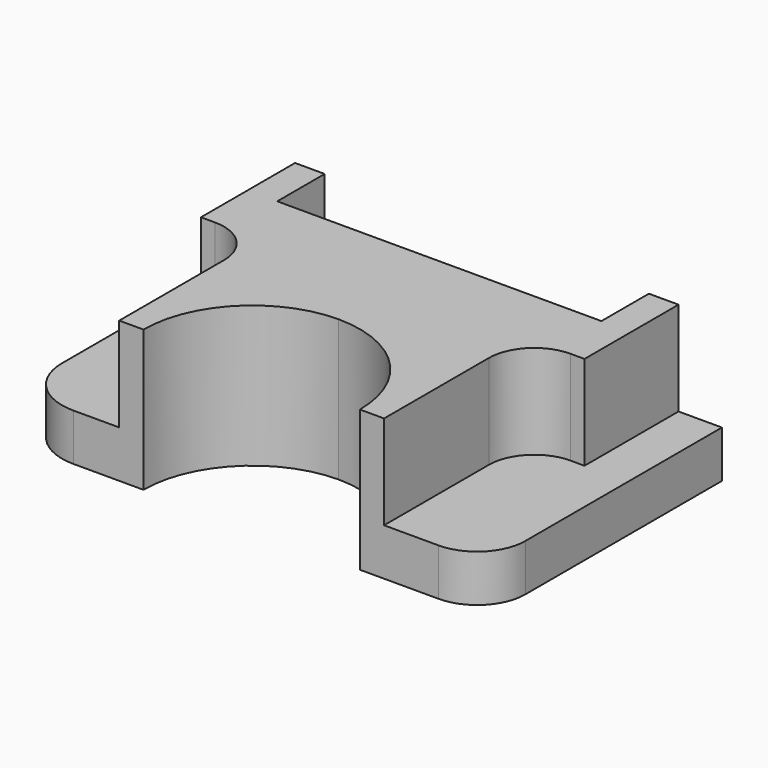
from build123d import *

# Parameters (mm, degrees)
F0_W     = 101.6
F0_H     = 63.5
F1_DEPTH = 10.16
F3_DEPTH = 30.48
F4_DEPTH = 25.4
F5_R     = 10.4245741623
F6_R     = 12.2642048969
F7_R     = 9.8113639175


with BuildPart() as f1:
    # F0 (on Top) → F1 (new body)
    with BuildSketch(Plane.XY):
        Rectangle(F0_W, F0_H)
    extrude(amount=F1_DEPTH)

    # F2 (on Top) → F3 (join)
    with BuildSketch(Plane.XY):
        with BuildLine():
            Line((-41.4277352393, 31.75), (-41.4277352393, 6.35))
            Line((-41.4277352393, 6.35), (-28.6113340408, 6.35))
            Line((-28.6113340408, 6.35), (-28.6113340408, -31.75))
            Line((-28.6113340408, -31.75), (-23.3824987947, -31.75))
            ThreePointArc((-23.3824987947, -31.75), (-16.5415723839, -15.1712032327), (0, -8.2407516258))
            ThreePointArc((0, -8.2407516258), (16.5415723839, -15.1712032327), (23.3824987947, -31.75))
            Line((23.3824987947, -31.75), (28.6113340408, -31.75))
            Line((28.6113340408, -31.75), (28.6113340408, 6.35))
            Line((28.6113340408, 6.35), (41.4277352393, 6.35))
            Line((41.4277352393, 6.35), (41.4277352393, 31.75))
            Line((41.4277352393, 31.75), (35.0195355713, 31.75))
            Line((35.0195355713, 31.75), (35.0195355713, 18.9336006641))
            Line((35.0195355713, 18.9336006641), (0, 18.9336006641))
            Line((0, 18.9336006641), (-35.0195355713, 18.9336006641))
            Line((-35.0195355713, 18.9336006641), (-35.0195355713, 31.75))
            Line((-35.0195355713, 31.75), (-41.4277352393, 31.75))
        make_face()
    extrude(amount=F3_DEPTH)

    # F4 (cut): a face of the model
    f4_faces = [f1.faces().sort_by_distance(p)[0] for p in [
        (0, -21.7845350745, 10.16),
    ]]
    extrude(f4_faces, amount=-F4_DEPTH, mode=Mode.SUBTRACT)

    # F5
    f5_edges = [f1.edges().sort_by_distance(p)[0] for p in [
        (50.8, -31.75, 5.08),
    ]]
    fillet(f5_edges, radius=F5_R)

    # F6
    f6_edges = [f1.edges().sort_by_distance(p)[0] for p in [
        (-50.8, -31.75, 5.08),
    ]]
    fillet(f6_edges, radius=F6_R)

    # F7
    f7_edges = [f1.edges().sort_by_distance(p)[0] for p in [
        (28.611334, 6.35, 20.32),
        (-28.611334, 6.35, 20.32),
    ]]
    fillet(f7_edges, radius=F7_R)


solid = f1.part
